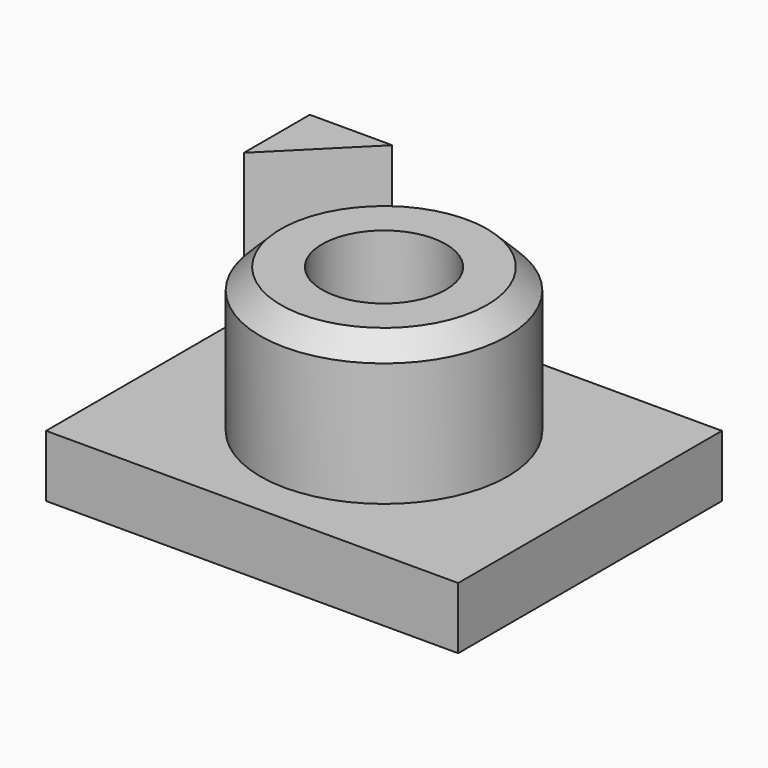
from build123d import *

# Parameters (mm, degrees)
F0_W     = 100
F0_H     = 80
F1_DEPTH = 15
F3_DEPTH = 35
F4_R     = 30
F5_DEPTH = 35
F6_SIZE  = 5
F7_R     = 15
F8_DEPTH = 40
F9_R     = 10


with BuildPart() as f1:
    # F0 (on Top) → F1 (new body)
    with BuildSketch(Plane.XY):
        with Locations((50, 40)):
            Rectangle(F0_W, F0_H)
    extrude(amount=F1_DEPTH)

    # F2 (on face) → F3 (join)
    with BuildSketch(Plane.XY.offset(15)):
        Polygon((20, 80), (0, 80), (0, 60), align=None)
    extrude(amount=F3_DEPTH)

    # F4 (on face) → F5 (join)
    with BuildSketch(Plane.XY.offset(15)):
        with Locations((50, 40)):
            Circle(F4_R)
    extrude(amount=F5_DEPTH)

    # F6
    f6_edges = [f1.edges().sort_by_distance(p)[0] for p in [
        (20, 40, 50),
    ]]
    chamfer(f6_edges, length=F6_SIZE)

    # F7 (on face) → F8 (cut)
    with BuildSketch(Plane.XY.offset(50)):
        with Locations((50, 40)):
            Circle(F7_R)
    extrude(amount=-F8_DEPTH, mode=Mode.SUBTRACT)

    # F9
    f9_edges = [f1.edges().sort_by_distance(p)[0] for p in [
        (35, 40, 10),
    ]]
    fillet(f9_edges, radius=F9_R)


solid = f1.part
